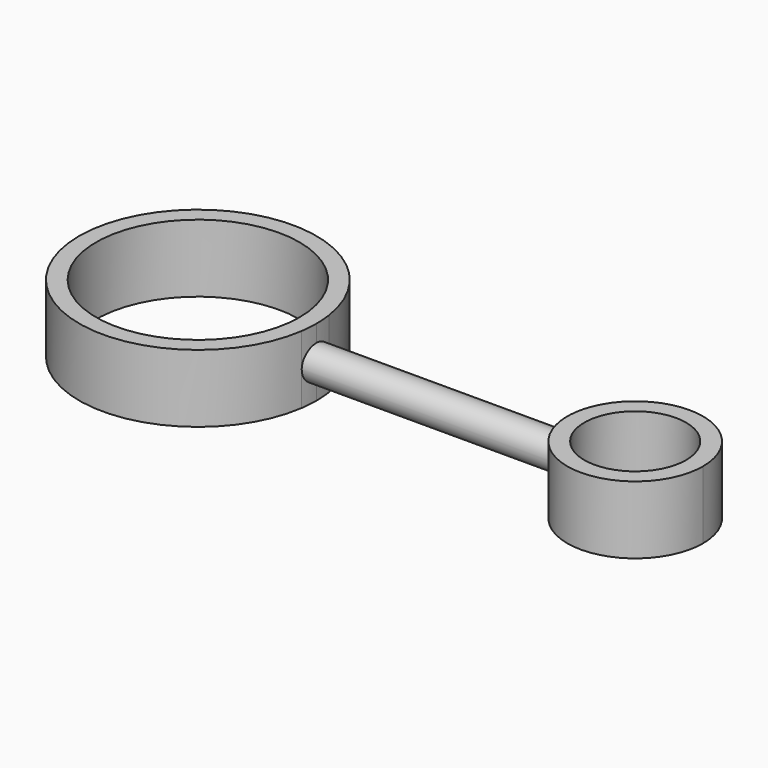
from build123d import *

# Parameters (mm, degrees)
F0_R     = 12.7
F1_DEPTH = 95.25
F2_R     = 76.2
F3_DEPTH = 25.4
F4_R     = 38.1
F5_DEPTH = 25.4


with BuildPart() as f1:
    # F0 (on Right) → F1 (new body, symmetric)
    with BuildSketch(Plane.YZ):
        Circle(F0_R)
    extrude(amount=F1_DEPTH, both=True)

    # F2 (on Top) → F3 (join, symmetric)
    with BuildSketch(Plane.XY):
        with BuildLine():
            ThreePointArc((-94.338181, 0), (-94.566429, 6.366345), (-95.25, 12.7))
            Line((-95.25, 12.7), (-95.25, -12.7))
            ThreePointArc((-95.25, -12.7), (-94.566429, -6.366345), (-94.338181, 0))
        make_face()
        with BuildLine():
            Line((-95.25, -12.7), (-95.25, 12.7))
            ThreePointArc((-95.25, 12.7), (-272.138181, 0), (-95.25, -12.7))
        make_face()
        with Locations((-183.238181, 0)):
            Circle(F2_R, mode=Mode.SUBTRACT)
    extrude(amount=F3_DEPTH, both=True)

    # F4 (on Top) → F5 (join, symmetric)
    with BuildSketch(Plane.XY):
        with BuildLine():
            Line((95.25, -12.7), (95.25, 12.7))
            ThreePointArc((95.25, 12.7), (93.636888, 0), (95.25, -12.7))
        make_face()
        with BuildLine():
            ThreePointArc((195.236888, 0), (150.837907, 50.395109), (95.25, 12.7))
            Line((95.25, 12.7), (95.25, -12.7))
            ThreePointArc((95.25, -12.7), (150.837907, -50.395109), (195.236888, 0))
        make_face()
        with Locations((144.436888, 0)):
            Circle(F4_R, mode=Mode.SUBTRACT)
    extrude(amount=F5_DEPTH, both=True)


solid = f1.part
